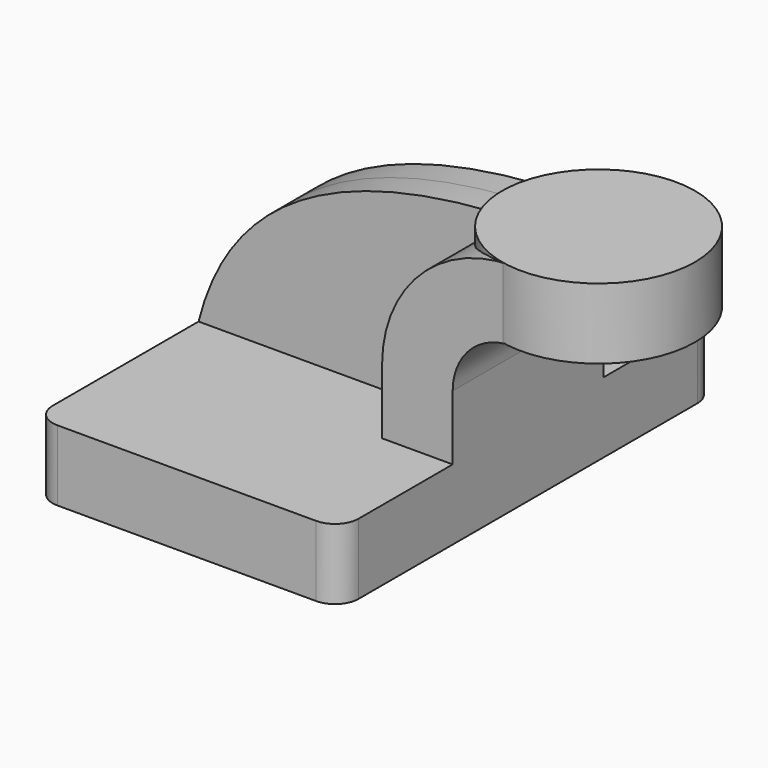
from build123d import *

# Parameters (mm, degrees)
F1_DEPTH = 63.5
F2_DEPTH = 25.4
F3_DEPTH = 7.9375
F0_W     = 26.0383098787
F0_H     = 19.05
F5_R     = 6.35


with BuildPart() as f1:
    # F0 (on Front) → F1 (new body, symmetric)
    with BuildSketch(Plane.XZ):
        Polygon((22.225, 9.525), (-41.275, 9.525), (-41.275, -9.525), (41.275, -9.525), (41.275, 9.525), align=None)
    extrude(amount=F1_DEPTH, both=True)

    # F0 (on Front) → F2 (join, symmetric)
    with BuildSketch(Plane.XZ):
        with BuildLine():
            Line((22.225, 27.0002), (22.225, 9.525))
            Line((22.225, 9.525), (41.275, 9.525))
            Line((41.275, 9.525), (41.275, 27.0002))
            ThreePointArc((41.275, 27.0002), (45.9246798487, 38.2255201513), (57.15, 42.8752))
            Line((57.15, 42.8752), (60.325, 42.8752))
            Line((60.325, 42.8752), (60.325, 61.9252))
            Line((60.325, 61.9252), (57.15, 61.9252))
            ThreePointArc((57.15, 61.9252), (32.4542956671, 51.6959043329), (22.225, 27.0002))
        make_face()
    extrude(amount=F2_DEPTH, both=True)

    # F0 (on Front) → F3 (join, symmetric)
    with BuildSketch(Plane.XZ):
        with BuildLine():
            add(Edge.make_bspline(
                [(-41.275, 9.525), (-33.8429920375, 38.8737134635), (-9.1467518359, 62.6552775502), (57.15, 61.9252)],
                knots=[0, 0, 0, 0, 111.5045361635, 111.5045361635, 111.5045361635, 111.5045361635], degree=3))
            Line((-41.275, 9.525), (22.225, 9.525))
            Line((22.225, 9.525), (22.225, 27.0002))
            ThreePointArc((22.225, 27.0002), (32.4542956671, 51.6959043329), (57.15, 61.9252))
        make_face()
    extrude(amount=F3_DEPTH, both=True)

    # F5
    f5_edges = [f1.edges().sort_by_distance(p)[0] for p in [
        (-41.275, -63.5, 0),
        (41.275, -63.5, 0),
        (41.275, 63.5, 0),
        (-41.275, 63.5, 0),
    ]]
    fillet(f5_edges, radius=F5_R)


with BuildPart() as f4:
    # F0 (on Front) → F4 (revolve)
    with BuildSketch(Plane.XZ):
        with Locations((73.3441549394, 52.4002)):
            Rectangle(F0_W, F0_H)
    revolve(axis=Axis((60.325, 0, 52.3875), (0, 0, -1)))


solid = Compound([f1.part, f4.part])
